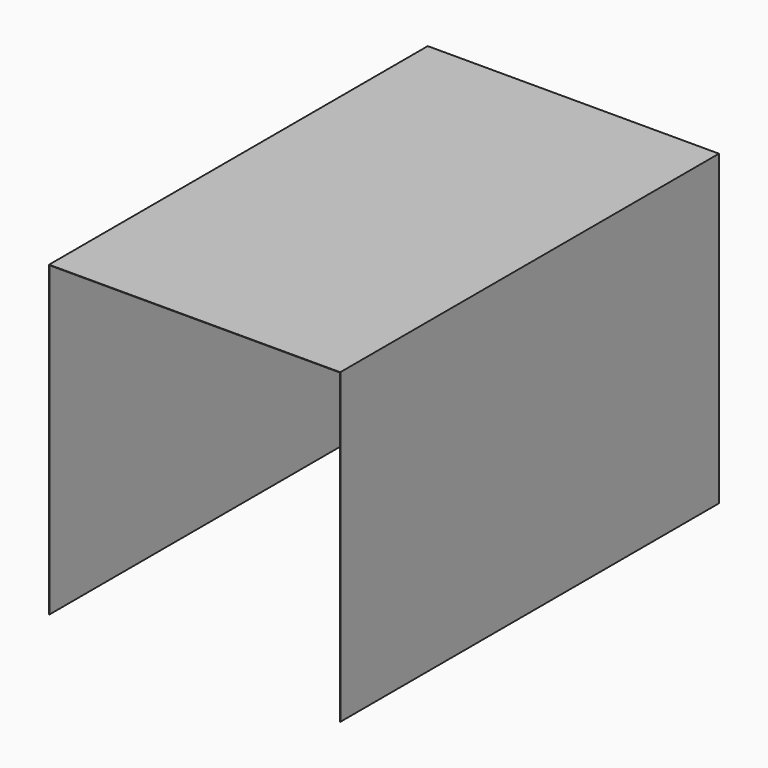
from build123d import *

# Parameters (mm, degrees)
F0_W     = 1784
F0_H     = 2900
F1_DEPTH = 1886
F2_T     = -2.5


with BuildPart() as f1:
    # F0 (on Top) → F1 (new body)
    with BuildSketch(Plane.XY):
        with Locations((892, 1450)):
            Rectangle(F0_W, F0_H)
    extrude(amount=F1_DEPTH)

    # F2
    f2_openings = [f1.faces().sort_by_distance(p)[0] for p in [
        (892, 0, 943),
        (892, 2900, 943),
        (892, 1450, 0),
    ]]
    offset(amount=F2_T, openings=f2_openings)


solid = f1.part
